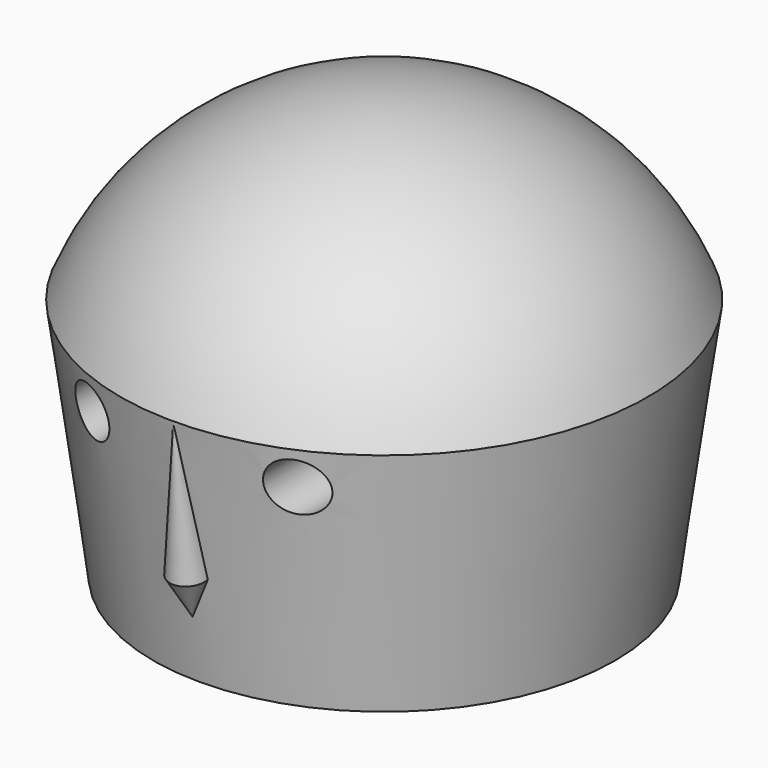
from build123d import *

# Parameters (mm, degrees)
F5_R     = 5.7795430002
F6_DEPTH = 59.4581398822


with BuildPart() as f2:
    # F0 (on Front) → F2 (revolve)
    with BuildSketch(Plane.XZ):
        with BuildLine():
            Line((0, -76.3018727303), (0, 40.0318655784))
            ThreePointArc((0, 40.0318655784), (-35.838881584, 29.0912444487), (-59.4571397822, 0))
            Line((-59.4571397822, 0), (-52.0060834734, -54.7144413709))
            Line((-52.0060834734, -54.7144413709), (0, -76.3018727303))
        make_face()
    revolve(axis=Axis((0, 0, -2.2435374558), (0, 0, -1)))

    # F3 (on Right) → F4 (revolve)
    with BuildSketch(Plane.YZ):
        Polygon((-53.9465136826, -41.0103276372), (-59.3697093427, 0), (-59.3697093427, -32.4473902583), align=None)
    revolve(axis=Axis((0, -56.6581115127, -20.5051638186), (0, 0.1310984402, -0.9913693555)))

    # F5 (on Front) → F6 (cut, through all)
    with BuildSketch(Plane.XZ):
        with Locations((-23.1199357659, -7.9002967104)):
            Circle(F5_R)
        with Locations((23.1199357659, -7.9002967104)):
            Circle(F5_R)
    extrude(amount=F6_DEPTH, mode=Mode.SUBTRACT)


solid = f2.part
